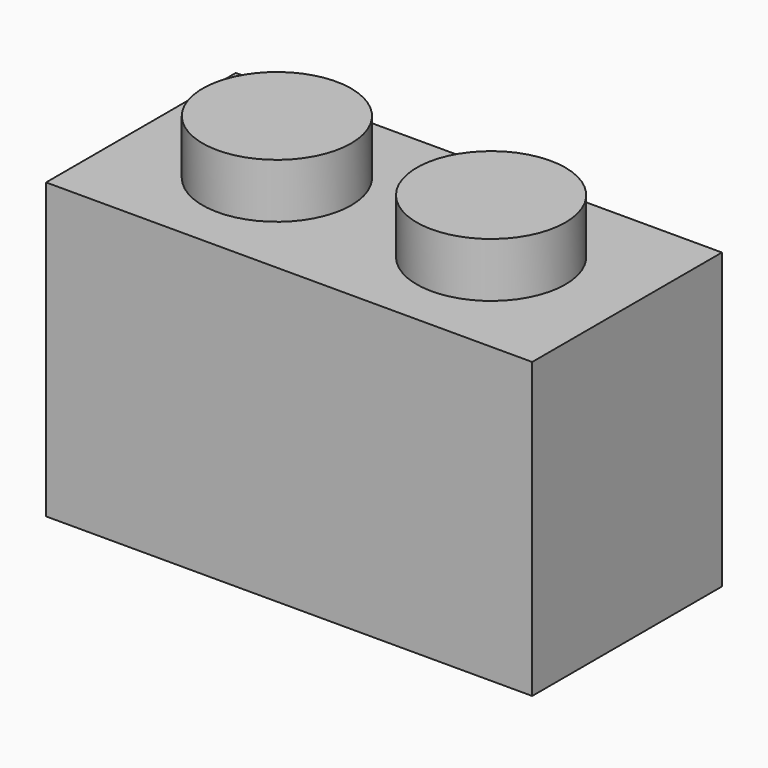
from build123d import *

# Parameters (mm, degrees)
F0_W     = 15.621
F0_H     = 7.62
F1_DEPTH = 9.4488
F2_R     = 2.3876
F3_DEPTH = 1.7526
F4_W     = 12.827
F4_H     = 4.8514
F5_DEPTH = 8.128
F6_R     = 1.4224
F7_DEPTH = 8.128


with BuildPart() as f1:
    # F0 (on Top) → F1 (new body)
    with BuildSketch(Plane.XY):
        Rectangle(F0_W, F0_H)
    extrude(amount=F1_DEPTH)

    # F2 (on face) → F3 (join)
    with BuildSketch(Plane.XY.offset(9.4488)):
        with Locations((-3.4417, 0)):
            Circle(F2_R)
        with Locations((3.4417, 0)):
            Circle(F2_R)
    extrude(amount=F3_DEPTH)

    # F4 (on face) → F5 (cut)
    with BuildSketch(Plane(origin=(0, 0, 0), x_dir=(1, 0, 0), z_dir=(0, 0, -1))):
        Rectangle(F4_W, F4_H)
    extrude(amount=-F5_DEPTH, mode=Mode.SUBTRACT)

    # F6 (on face) → F7 (join)
    with BuildSketch(Plane(origin=(0, 0, 8.128), x_dir=(1, 0, 0), z_dir=(0, 0, -1))):
        Circle(F6_R)
    extrude(amount=F7_DEPTH)


solid = f1.part
